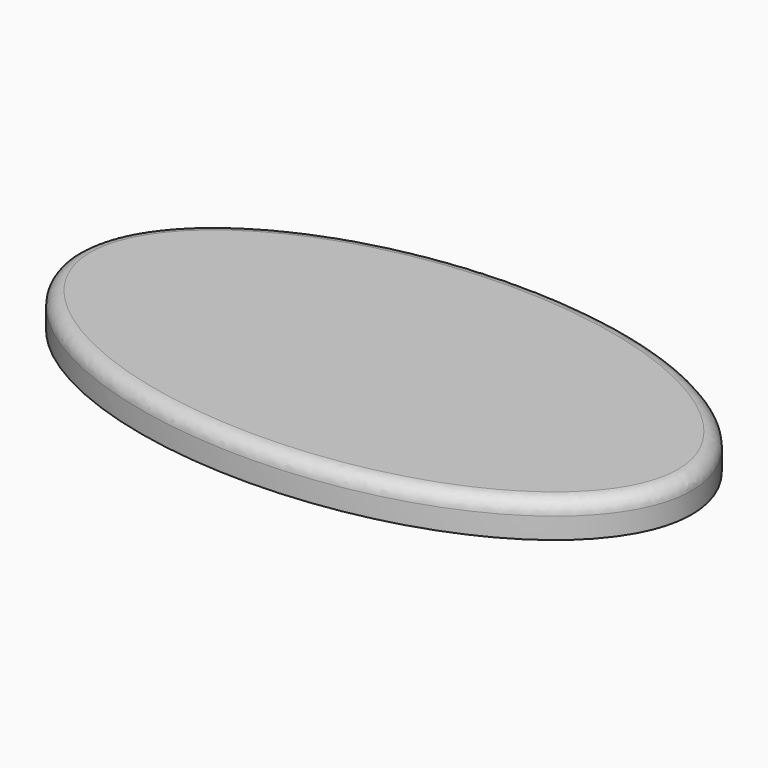
from build123d import *

# Parameters (mm, degrees)
F1_DEPTH = 5
F2_R     = 2


with BuildPart() as f1:
    # F0 (on Top) → F1 (new body)
    with BuildSketch(Plane.XY):
        with BuildLine():
            add(Edge.make_bspline(
                [(17.2793213278, 19.7619814426), (17.2793213278, 62.8056792364), (-48.560846597, 41.2838303395), (-114.4010145217, 19.7619814426), (-48.560846597, -1.7598674544), (17.2793213278, -23.2817163513), (17.2793213278, 19.7619814426)],
                knots=[0, 0, 0, 2.0943951024, 2.0943951024, 4.1887902048, 4.1887902048, 6.2831853072, 6.2831853072, 6.2831853072], degree=2, weights=[1, 0.5, 1, 0.5, 1, 0.5, 1]))
        make_face()
    extrude(amount=F1_DEPTH)

    # F2
    f2_edges = [f1.edges().sort_by_distance(p)[0] for p in [
        (-70.507569, 19.761983, 5),
    ]]
    fillet(f2_edges, radius=F2_R)


solid = f1.part
